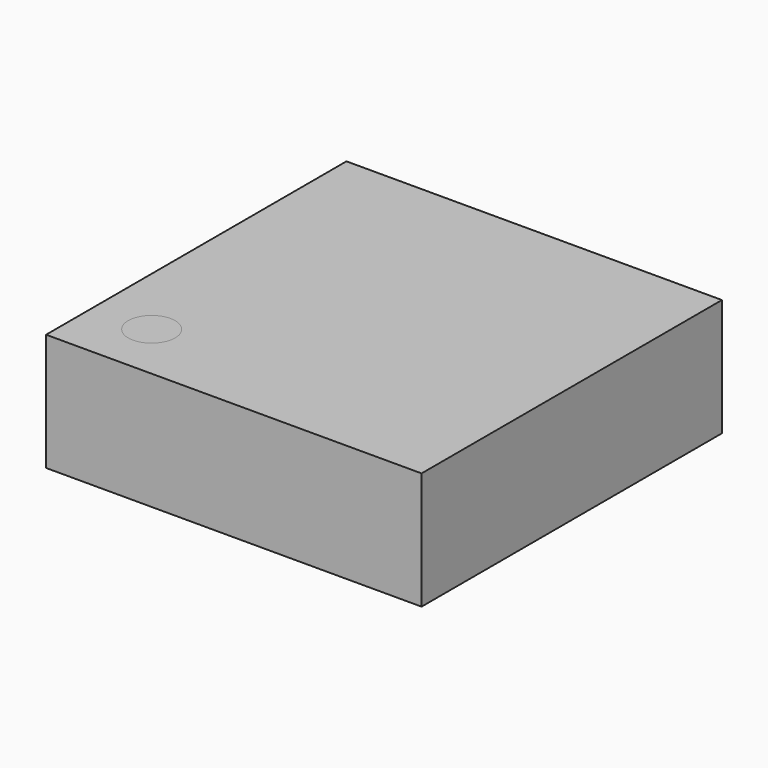
from build123d import *

# Parameters (mm, degrees)
BOX_W          = 1.6
BOX_H          = 1.6
BOX_DEPTH      = 0.5
CYLINDER_R     = 0.1
CYLINDER_DEPTH = 0.5


with BuildPart() as cube:
    # Box → Box (new body)
    with BuildSketch(Plane.XY):
        with Locations((0.8, 0.8)):
            Rectangle(BOX_W, BOX_H)
    extrude(amount=BOX_DEPTH)


with BuildPart() as body:
    # Body base: copy of Cube
    add(cube.part)


with BuildPart() as cylinder:
    # Cylinder → Cylinder (new body)
    with BuildSketch(Plane(origin=(0.25, 0.25, 0.45), x_dir=(1, 0, 0), z_dir=(0, 0, 1))):
        Circle(CYLINDER_R)
    extrude(amount=CYLINDER_DEPTH)


with BuildPart() as cut:
    # Cut base: copy of Cube
    add(cube.part)

    # Cut: cut Cylinder
    add(cylinder.part, mode=Mode.SUBTRACT)


solid = Compound([body.part, cut.part])
